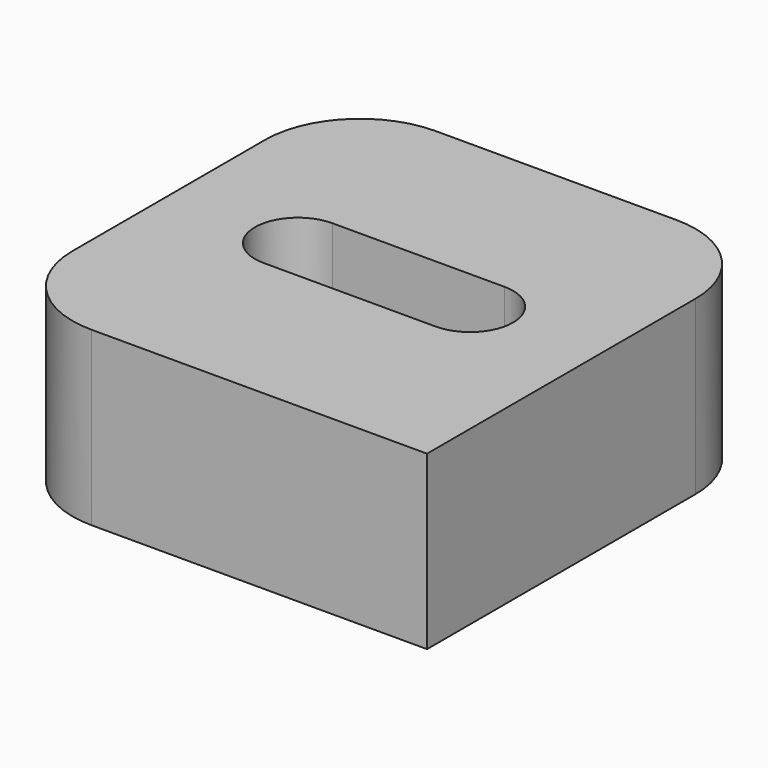
from build123d import *

# Parameters (mm, degrees)
SKETCH_W     = 50
SKETCH_H     = 50
PAD_DEPTH    = 20
POCKET_DEPTH = 10
FILLET_R     = 11


with BuildPart() as part:
    # Sketch → Pad (new body)
    with BuildSketch(Plane.XY):
        Rectangle(SKETCH_W, SKETCH_H)
    extrude(amount=PAD_DEPTH)

    # Sketch001 → Pocket (cut)
    with BuildSketch(Plane.XY.offset(20)):
        with BuildLine():
            ThreePointArc((-10, 5), (-15, 0), (-10, -5))
            Line((-10, -5), (10, -5))
            ThreePointArc((10, -5), (15, 0), (10, 5))
            Line((-10, 5), (10, 5))
        make_face()
    extrude(amount=-POCKET_DEPTH, mode=Mode.SUBTRACT)

    # Fillet
    fillet_edges = [part.edges().sort_by_distance(p)[0] for p in [
        (-25, -25, 10),
        (-25, 25, 10),
        (25, 25, 10),
    ]]
    fillet(fillet_edges, radius=FILLET_R)


solid = part.part
